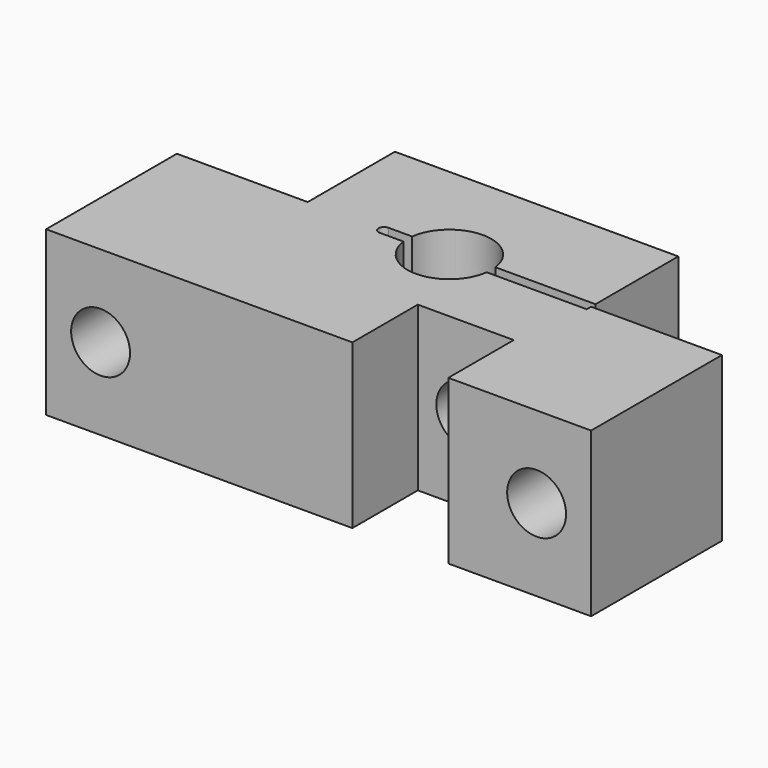
from build123d import *

# Parameters (mm, degrees)
F1_DEPTH = 19.05
F3_DEPTH = 19.051
F4_R     = 3.429
F5_DEPTH = 31.751
F6_W     = 11.176
F6_H     = 19.05
F7_DEPTH = 9.525
F8_R     = 3.429
F9_DEPTH = 31.751


with BuildPart() as f1:
    # F0 (on Top) → F1 (new body)
    with BuildSketch(Plane.XY):
        Polygon((-31.75, 19.05), (-31.75, 0), (31.75, 0), (31.75, 19.05), (16.51, 19.05), (16.51, 31.75), (-16.51, 31.75), (-16.51, 19.05), align=None)
    extrude(amount=F1_DEPTH)

    # F2 (on Top) → F3 (cut, through all)
    with BuildSketch(Plane.XY):
        with BuildLine():
            Line((-7.62, 18.415), (-4.848091, 18.415))
            ThreePointArc((-4.848091, 18.415), (0, 14.1605), (4.848091, 18.415))
            Line((4.848091, 18.415), (16.51, 18.415))
            Line((16.51, 18.415), (16.51, 19.685))
            Line((16.51, 19.685), (4.848091, 19.685))
            ThreePointArc((4.848091, 19.685), (0, 23.9395), (-4.848091, 19.685))
            Line((-4.848091, 19.685), (-7.62, 19.685))
            ThreePointArc((-7.62, 19.685), (-8.255, 19.05), (-7.62, 18.415))
        make_face()
    extrude(amount=F3_DEPTH, mode=Mode.SUBTRACT)

    # F4 (on Front) → F5 (cut, through all)
    with BuildSketch(Plane.XZ):
        with Locations((25.4, 9.525)):
            Circle(F4_R)
        with Locations((-25.4, 9.525)):
            Circle(F4_R)
    extrude(amount=-F5_DEPTH, mode=Mode.SUBTRACT)

    # F6 (on Front) → F7 (cut)
    with BuildSketch(Plane.XZ):
        with Locations((9.525, 9.525)):
            Rectangle(F6_W, F6_H)
    extrude(amount=-F7_DEPTH, mode=Mode.SUBTRACT)

    # F8 (on face) → F9 (cut, through all)
    with BuildSketch(Plane(origin=(0, 31.75, 0), x_dir=(-1, 0, 0), z_dir=(0, 1, 0))):
        with Locations((-9.525, 9.525)):
            Circle(F8_R)
    extrude(amount=-F9_DEPTH, mode=Mode.SUBTRACT)


solid = f1.part
